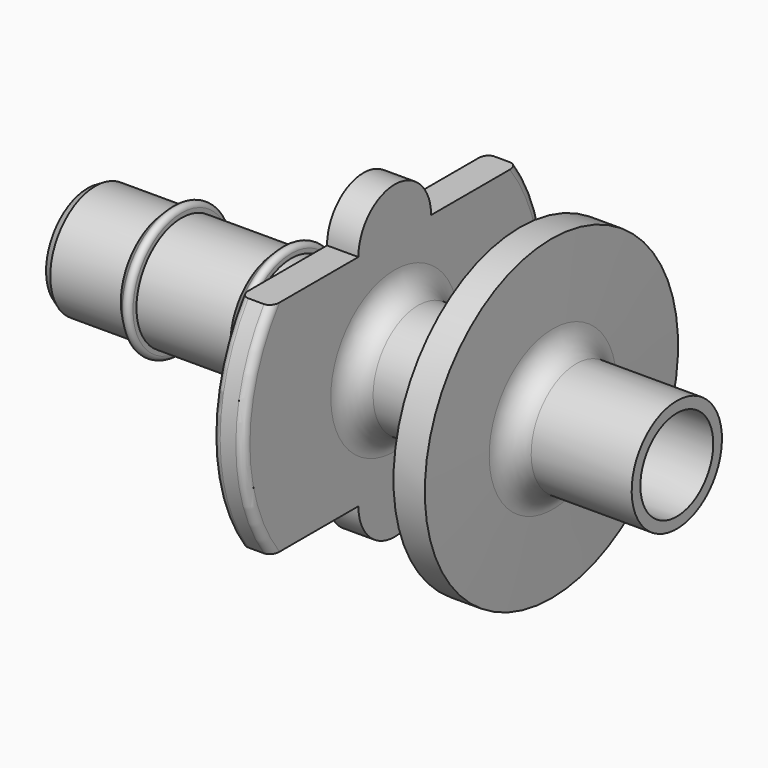
from build123d import *

# Parameters (mm, degrees)
F4_DEPTH = 11.1


with BuildPart() as f1:
    # F0 (on Front) → F1 (revolve)
    with BuildSketch(Plane.XZ):
        with BuildLine():
            Line((-19.77815, 3.311325), (-19.77815, 2.25))
            Line((-19.77815, 2.25), (17.82185, 2.90631))
            Line((17.82185, 2.90631), (17.82185, 3.6))
            Line((17.82185, 3.6), (11.409354, 3.6))
            ThreePointArc((11.409354, 3.6), (10.35799, 4.030124), (9.909583, 5.073821))
            Line((9.909583, 5.073821), (9.82185, 10.1))
            Line((9.82185, 10.1), (7.82185, 10.1))
            Line((7.82185, 10.1), (7.82185, 5.1))
            ThreePointArc((7.82185, 5.1), (7.38251, 4.03934), (6.32185, 3.6))
            Line((6.32185, 3.6), (1.32185, 3.6))
            ThreePointArc((1.32185, 3.6), (0.26119, 4.03934), (-0.17815, 5.1))
            Line((-0.17815, 5.1), (-0.17815, 11.55))
            ThreePointArc((-0.17815, 11.55), (-0.324596, 11.903553), (-0.67815, 12.05))
            Line((-0.67815, 12.05), (-1.67815, 12.05))
            ThreePointArc((-1.67815, 12.05), (-2.031703, 11.903553), (-2.17815, 11.55))
            Line((-2.17815, 11.55), (-2.17815, 5.1))
            ThreePointArc((-2.17815, 5.1), (-2.61749, 4.03934), (-3.67815, 3.6))
            Line((-3.67815, 3.6), (-6.77815, 3.6))
            Line((-6.77815, 3.6), (-7.77815, 3.6))
            Line((-7.77815, 3.6), (-13.77815, 3.6))
            Line((-13.77815, 3.6), (-14.77815, 3.6))
            Line((-14.77815, 3.6), (-19.27815, 3.6))
            Line((-19.27815, 3.6), (-19.77815, 3.311325))
        make_face()
        with BuildLine():
            Line((-14.290282, 4.087868), (-14.77815, 3.6))
            Line((-14.77815, 3.6), (-13.77815, 3.6))
            Line((-13.77815, 3.6), (-13.77815, 3.875736))
            ThreePointArc((-13.77815, 3.875736), (-13.963345, 4.1529), (-14.290282, 4.087868))
        make_face()
        with BuildLine():
            Line((-7.290282, 4.087868), (-7.77815, 3.6))
            Line((-7.77815, 3.6), (-6.77815, 3.6))
            Line((-6.77815, 3.6), (-6.77815, 3.875736))
            ThreePointArc((-6.77815, 3.875736), (-6.963345, 4.1529), (-7.290282, 4.087868))
        make_face()
    revolve(axis=Axis((0.00444, 0, 0), (1, 0, 0)))

    # F3 (on offset) → F4 (cut)
    with BuildSketch(Plane.YZ.offset(-7.9)):
        with BuildLine():
            Line((2.9, 7), (9.808287, 7))
            ThreePointArc((9.808287, 7), (0, 12.05), (-9.808287, 7))
            Line((-9.808287, 7), (-2.9, 7))
            ThreePointArc((-2.9, 7), (0, 9.9), (2.9, 7))
        make_face()
        with BuildLine():
            ThreePointArc((-9.808287, -7), (0, -12.05), (9.808287, -7))
            Line((9.808287, -7), (2.9, -7))
            ThreePointArc((2.9, -7), (0, -9.9), (-2.9, -7))
            Line((-2.9, -7), (-9.808287, -7))
        make_face()
    extrude(amount=F4_DEPTH, mode=Mode.SUBTRACT)


solid = f1.part
